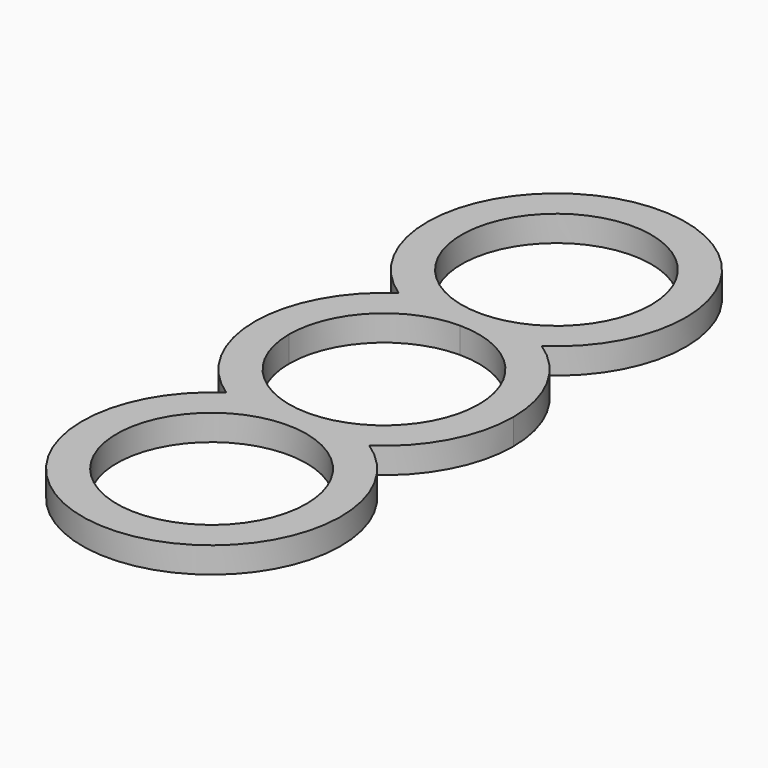
from build123d import *

# Parameters (mm, degrees)
F0_R     = 11
F1_DEPTH = 3


with BuildPart() as f1:
    # F0 (on Top) → F1 (new body)
    with BuildSketch(Plane.XY):
        with BuildLine():
            ThreePointArc((-11, 0), (0, -11), (11, 0))
            ThreePointArc((11, 0), (7.778175, 7.778175), (0, 11))
            ThreePointArc((0, 11), (-7.778175, 7.778175), (-11, 0))
        make_face()
        with BuildLine():
            ThreePointArc((11, 25), (-7.778175, 32.778175), (0, 14))
            ThreePointArc((0, 14), (7.778175, 17.221825), (11, 25))
        make_face()
        with BuildLine():
            ThreePointArc((8.291562, -12.5), (13.21691, -7.093186), (15, 0))
            ThreePointArc((15, 0), (13.21691, 7.093186), (8.291562, 12.5))
            ThreePointArc((8.291562, 12.5), (0, 40), (-8.291562, 12.5))
            ThreePointArc((-8.291562, 12.5), (-13.21691, 7.093186), (-15, 0))
            ThreePointArc((-15, 0), (-13.21691, -7.093186), (-8.291562, -12.5))
            ThreePointArc((-8.291562, -12.5), (0, -40), (8.291562, -12.5))
        make_face()
        with Locations((0, -25)):
            Circle(F0_R, mode=Mode.SUBTRACT)
        with BuildLine():
            ThreePointArc((0, 11), (7.778175, 7.778175), (11, 0))
            ThreePointArc((11, 0), (0, -11), (-11, 0))
            ThreePointArc((-11, 0), (-7.778175, 7.778175), (0, 11))
        make_face(mode=Mode.SUBTRACT)
        with BuildLine():
            ThreePointArc((11, 25), (7.778175, 17.221825), (0, 14))
            ThreePointArc((0, 14), (-7.778175, 32.778175), (11, 25))
        make_face(mode=Mode.SUBTRACT)
    extrude(amount=F1_DEPTH)


solid = f1.part
